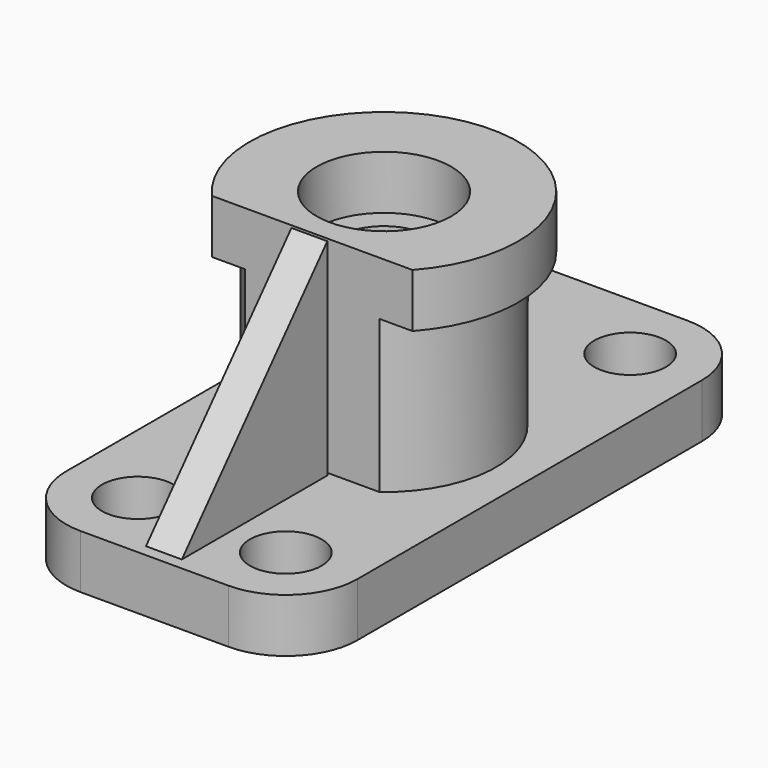
from build123d import *

# Parameters (mm, degrees)
F0_R      = 15
F1_DEPTH  = 12
F2_R      = 10
F3_DEPTH  = 34
F4_W      = 32.5
F4_H      = 64
F5_DEPTH  = 12
F6_R      = 16
F7_R      = 8
F8_DEPTH  = 12.001
F10_DEPTH = 4


with BuildPart() as f1:
    # F0 (on Top) → F1 (new body)
    with BuildSketch(Plane.XY):
        with BuildLine():
            Line((-22.36068, -20), (22.36068, -20))
            ThreePointArc((22.36068, -20), (0, 30), (-22.36068, -20))
        make_face()
        Circle(F0_R, mode=Mode.SUBTRACT)
    extrude(amount=-F1_DEPTH)

    # F2 (on face) → F3 (join)
    with BuildSketch(Plane(origin=(0, 0, -12), x_dir=(1, 0, 0), z_dir=(0, 0, -1))):
        with BuildLine():
            Line((15, 20), (-15, 20))
            ThreePointArc((-15, 20), (0, -25), (15, 20))
        make_face()
        Circle(F2_R, mode=Mode.SUBTRACT)
    extrude(amount=F3_DEPTH)

    # F4 (on face) → F5 (join)
    with BuildSketch(Plane(origin=(0, 0, -46), x_dir=(1, 0, 0), z_dir=(0, 0, -1))):
        with Locations((16.25, 32)):
            Rectangle(F4_W, F4_H)
        with Locations((16.25, -32)):
            Rectangle(F4_W, F4_H)
        with Locations((-16.25, 32)):
            Rectangle(F4_W, F4_H)
        with Locations((-16.25, -32)):
            Rectangle(F4_W, F4_H)
    extrude(amount=F5_DEPTH)

    # F6
    f6_edges = [f1.edges().sort_by_distance(p)[0] for p in [
        (-32.5, 64, -52),
        (32.5, 64, -52),
        (-32.5, -64, -52),
        (32.5, -64, -52),
    ]]
    fillet(f6_edges, radius=F6_R)

    # F7 (on face) → F8 (cut, through all)
    with BuildSketch(Plane.XY.offset(-46)):
        with Locations((16.5, 48)):
            Circle(F7_R)
        with Locations((-16.5, 48)):
            Circle(F7_R)
        with Locations((-16.5, -48)):
            Circle(F7_R)
        with Locations((16.5, -48)):
            Circle(F7_R)
    extrude(amount=-F8_DEPTH, mode=Mode.SUBTRACT)

    # F9 (on Right) → F10 (join, symmetric)
    with BuildSketch(Plane.YZ):
        Polygon((-20.799277, -46.774581), (-20.799277, 0), (-62.041331, -46.774581), align=None)
    extrude(amount=F10_DEPTH, both=True)


solid = f1.part
